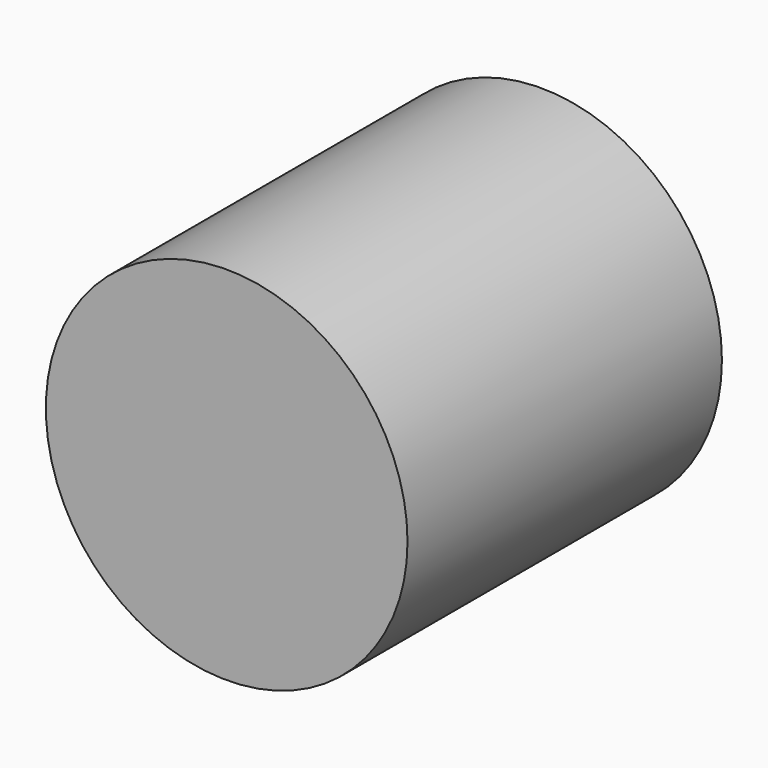
from build123d import *

# Parameters (mm, degrees)
F0_R     = 7.011876
F1_DEPTH = 15.24
F3_DEPTH = 7.874


with BuildPart() as f1:
    # F0 (on Front) → F1 (new body)
    with BuildSketch(Plane.XZ):
        Circle(F0_R)
    extrude(amount=F1_DEPTH)

    # F2 (on Front) → F3 (cut)
    with BuildSketch(Plane.XZ):
        Polygon((3.822133, -2.776942), (3.822133, 2.776942), (-1.459925, 4.493186), (-4.724416, 0), (-1.459925, -4.493186), align=None)
    extrude(amount=F3_DEPTH, mode=Mode.SUBTRACT)


solid = f1.part
